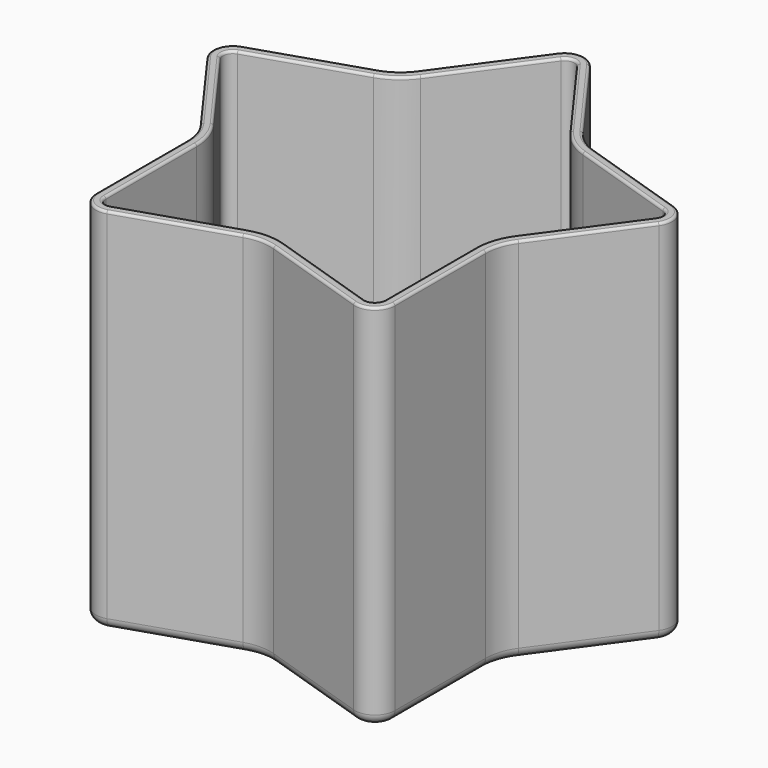
from build123d import *

# Parameters (mm, degrees)
F1_DEPTH = 37
F2_R     = 5
F3_R     = 2
F4_T     = -1
F5_R     = 1
F6_R     = 0.25


with BuildPart() as f1:
    # F0 (on Top) → F1 (new body)
    with BuildSketch(Plane.XY):
        Polygon((-15, -4.8737954435), (-15, -20.6457288071), (0, -15.7719333636), (15, -20.6457288071), (15, -4.8737954435), (24.2705098312, 7.8859666818), (9.2705098312, 12.7597621253), (0, 25.5195242506), (-9.2705098312, 12.7597621253), (-24.2705098312, 7.8859666818), align=None)
    extrude(amount=F1_DEPTH)

    # F2
    f2_edges = [f1.edges().sort_by_distance(p)[0] for p in [
        (9.27051, 12.759762, 18.5),
        (-9.27051, 12.759762, 18.5),
        (-15, -4.873795, 18.5),
        (0, -15.771933, 18.5),
        (15, -4.873795, 18.5),
    ]]
    fillet(f2_edges, radius=F2_R)

    # F3
    f3_edges = [f1.edges().sort_by_distance(p)[0] for p in [
        (-15, -20.645729, 18.5),
        (15, -20.645729, 18.5),
        (24.27051, 7.885967, 18.5),
        (0, 25.519524, 18.5),
        (-24.27051, 7.885967, 18.5),
    ]]
    fillet(f3_edges, radius=F3_R)

    # F4
    f4_openings = [f1.faces().sort_by_distance(p)[0] for p in [
        (0, 0, 37),
    ]]
    offset(amount=F4_T, openings=f4_openings)

    # F5
    f5_edges = [f1.edges().sort_by_distance(p)[0] for p in [
        (-16.234035, 10.497176, 0),
        (-22.936555, 7.452538, 0),
        (-9.421754, 12.967931, 0),
        (-19.303695, 1.049733, 0),
        (-4.966814, 18.683291, 0),
        (-15.244717, -4.953309, 0),
        (0, 24.116921, 0),
        (-15, -12.195679, 0),
        (4.966814, 18.683291, 0),
        (-14.175571, -19.510999, 0),
        (9.421754, 12.967931, 0),
        (-6.963525, -18.03452, 0),
        (16.234035, 10.497176, 0),
        (0, -16.029244, 0),
        (22.936555, 7.452538, 0),
        (6.963525, -18.03452, 0),
        (19.303695, 1.049733, 0),
        (14.175571, -19.510999, 0),
        (15.244717, -4.953309, 0),
        (15, -12.195679, 0),
    ]]
    fillet(f5_edges, radius=F5_R)

    # F6
    f6_edges = [f1.edges().sort_by_distance(p)[0] for p in [
        (-16.234035, 10.497176, 37),
        (-22.936555, 7.452538, 37),
        (-19.303695, 1.049733, 37),
        (-15.244717, -4.953309, 37),
        (-15, -12.195679, 37),
        (-14.175571, -19.510999, 37),
        (-6.963525, -18.03452, 37),
        (0, -16.029244, 37),
        (6.963525, -18.03452, 37),
        (14.175571, -19.510999, 37),
        (15, -12.195679, 37),
        (15.244717, -4.953309, 37),
        (19.303695, 1.049733, 37),
        (22.936555, 7.452538, 37),
        (16.234035, 10.497176, 37),
        (9.421754, 12.967931, 37),
        (4.966814, 18.683291, 37),
        (0, 24.116921, 37),
        (-4.966814, 18.683291, 37),
        (-9.421754, 12.967931, 37),
        (-15.925018, 9.546119, 37),
        (-8.833968, 12.158914, 37),
        (-4.157797, 18.095505, 37),
        (0, 23.116921, 37),
        (4.157797, 18.095505, 37),
        (8.833968, 12.158914, 37),
        (15.925018, 9.546119, 37),
        (21.985498, 7.143521, 37),
        (18.494678, 1.637518, 37),
        (14.293661, -4.644292, 37),
        (14, -12.195679, 37),
        (13.587785, -18.701982, 37),
        (7.272542, -17.083463, 37),
        (0, -15.029244, 37),
        (-7.272542, -17.083463, 37),
        (-13.587785, -18.701982, 37),
        (-14, -12.195679, 37),
        (-14.293661, -4.644292, 37),
        (-18.494678, 1.637518, 37),
        (-21.985498, 7.143521, 37),
    ]]
    fillet(f6_edges, radius=F6_R)


solid = f1.part
